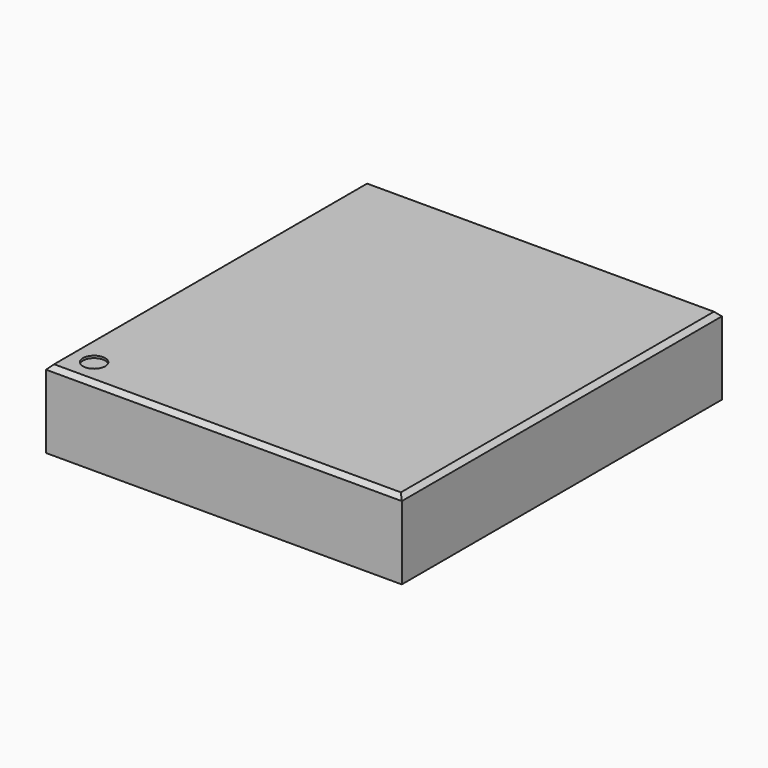
from build123d import *

# Parameters (mm, degrees)
SKETCH001_W  = 16
SKETCH001_H  = 18
PAD001_DEPTH = 3.5
CHAMFER_SIZE = 0.2
SKETCH002_R  = 0.5
POCKET_DEPTH = 0.1


with BuildPart() as part:
    # Sketch001 (on Face1 of CopyPad) → Pad001 (new body)
    with BuildSketch(Plane.XY.offset(1.6)):
        with Locations((0, 12)):
            Rectangle(SKETCH001_W, SKETCH001_H)
    extrude(amount=PAD001_DEPTH)

    # Chamfer
    chamfer_edges = [part.edges().sort_by_distance(p)[0] for p in [
        (0, 21, 5.1),
        (8, 12, 5.1),
        (0, 3, 5.1),
        (-8, 12, 5.1),
    ]]
    chamfer(chamfer_edges, length=CHAMFER_SIZE)

    # Sketch002 (on Face8 of Chamfer) → Pocket (cut)
    with BuildSketch(Plane.XY.offset(5.1)):
        with Locations((-6.8, 4.2)):
            Circle(SKETCH002_R)
    extrude(amount=-POCKET_DEPTH, mode=Mode.SUBTRACT)


solid = part.part
